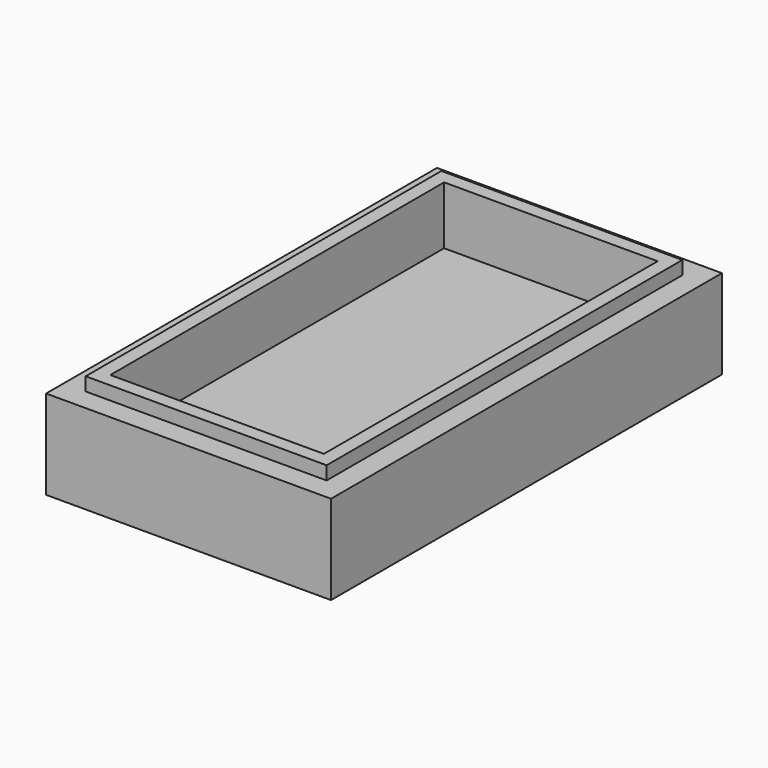
from build123d import *

# Parameters (mm, degrees)
F0_W     = 63.8628005981
F0_H     = 109.5097213984
F1_DEPTH = 20
F2_W     = 47.8628005981
F2_H     = 93.5097213984
F3_DEPTH = 10
F4_W     = 54.004792124
F4_H     = 99.651709199
F4_W_2   = 47.8628005981
F4_H_2   = 93.5097213984
F5_DEPTH = 3


with BuildPart() as f1:
    # F0 (on Top) → F1 (new body)
    with BuildSketch(Plane.XY):
        Rectangle(F0_W, F0_H)
    extrude(amount=F1_DEPTH)

    # F2 (on face) → F3 (cut)
    with BuildSketch(Plane.XY.offset(20)):
        Rectangle(F2_W, F2_H)
    extrude(amount=-F3_DEPTH, mode=Mode.SUBTRACT)

    # F4 (on face) → F5 (join)
    with BuildSketch(Plane.XY.offset(20)):
        Rectangle(F4_W, F4_H)
        Rectangle(F4_W_2, F4_H_2, mode=Mode.SUBTRACT)
    extrude(amount=F5_DEPTH)


solid = f1.part
